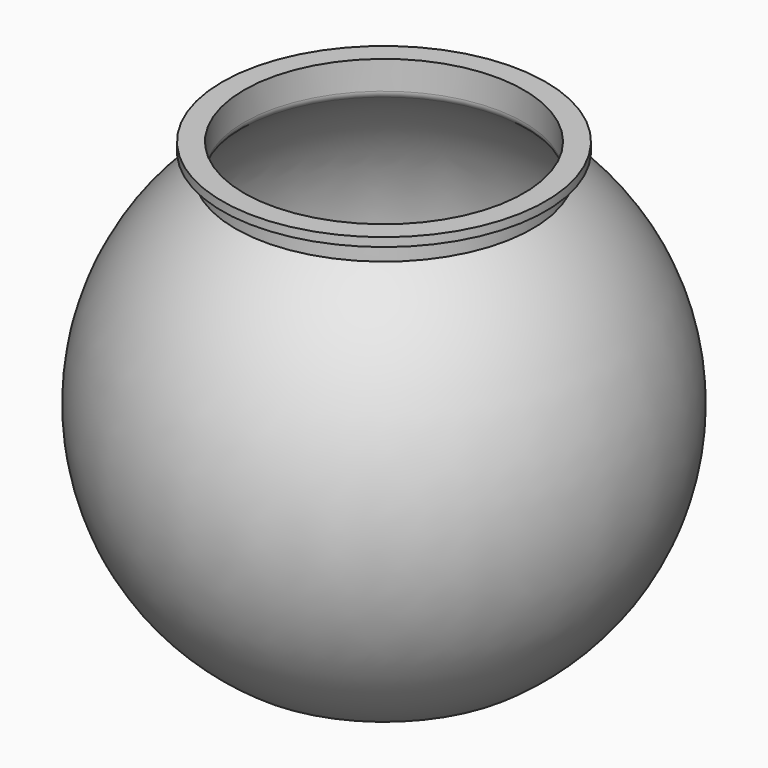
from build123d import *

# Parameters (mm, degrees)
F2_R     = 3
F3_DEPTH = 12.5


with BuildPart() as f1:
    # F0 (on Front) → F1 (revolve)
    with BuildSketch(Plane.XZ):
        with BuildLine():
            Line((-12.5, 10), (0, 10))
            Line((0, 10), (0, 14))
            Line((0, 14), (-12.5, 14))
            ThreePointArc((-12.5, 14), (-28.9316767252, 11.4392845984), (-43.804951685, 4))
            Line((-43.804951685, 4), (-63.755035387, 4))
            ThreePointArc((-63.755035387, 4), (-110.9939102363, 93.3977766273), (-65.6431984827, 183.768052196))
            ThreePointArc((-65.6431984827, 183.768052196), (-64.4343860228, 185.187157766), (-64, 187))
            Line((-64, 187), (-64, 200))
            Line((-64, 200), (-74, 200))
            Line((-74, 200), (-74, 196))
            Line((-74, 196), (-68, 196))
            Line((-68, 196), (-68, 187))
            ThreePointArc((-68, 187), (-114.9852798138, 92.7221612864), (-65, 0))
            Line((-65, 0), (-42.5, 0))
            ThreePointArc((-42.5, 0), (-28.3113883008, 7.4341649025), (-12.5, 10))
        make_face()
    revolve(axis=Axis((0, 0, 12), (0, 0, -1)))

    # F2 (on face) → F3 (cut, symmetric)
    with BuildSketch(Plane(origin=(0, 0, 10), x_dir=(1, 0, 0), z_dir=(0, 0, -1))):
        Circle(F2_R)
    extrude(amount=F3_DEPTH, both=True, mode=Mode.SUBTRACT)


solid = f1.part
